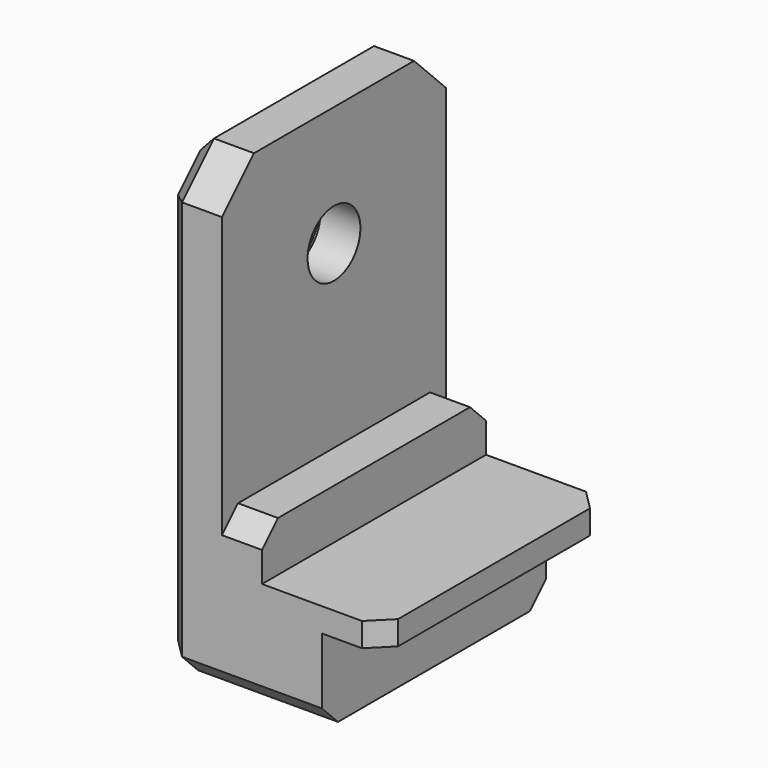
from build123d import *

# Parameters (mm, degrees)
CYLINDER049_R            = 3
CYLINDER049_DEPTH        = 1
CYLINDER050_R            = 1.65
CYLINDER050_DEPTH        = 10
BOX047_W                 = 2
BOX047_H                 = 14
BOX047_DEPTH             = 8
CHAMFER006013010006_SIZE = 1
BOX048_W                 = 3
BOX048_H                 = 14
BOX048_DEPTH             = 5.5
BOX049_W                 = 3
BOX049_H                 = 14
BOX049_DEPTH             = 1.2
CHAMFER006013010007_SIZE = 1
BOX046_W                 = 3
BOX046_H                 = 14
BOX046_DEPTH             = 23
CHAMFER006013010008_SIZE = 2
CHAMFER006013010009_SIZE = 1


with BuildPart() as cylinder049:
    # Cylinder049 → Cylinder049 (new body)
    with BuildSketch(Plane(origin=(-4, 22, 17), x_dir=(0, 0, 1), z_dir=(-1, 0, 0))):
        Circle(CYLINDER049_R)
    extrude(amount=CYLINDER049_DEPTH)


with BuildPart() as fusion024006014003:
    # Cylinder050 → Cylinder050 (new body)
    with BuildSketch(Plane(origin=(2, 22, 17), x_dir=(0, 0, 1), z_dir=(-1, 0, 0))):
        Circle(CYLINDER050_R)
    extrude(amount=CYLINDER050_DEPTH)

    # Fusion024006014003: union Cylinder049
    add(cylinder049.part)


with BuildPart() as chamfer006013010006:
    # Box047 → Box047 (new body)
    with BuildSketch(Plane(origin=(-2, 15, 0), x_dir=(1, 0, 0), z_dir=(0, 0, 1))):
        with Locations((1, 7)):
            Rectangle(BOX047_W, BOX047_H)
    extrude(amount=BOX047_DEPTH)

    # Chamfer006013010006
    chamfer006013010006_edges = [chamfer006013010006.edges().sort_by_distance(p)[0] for p in [
        (-1, 15, 8),
        (-1, 29, 8),
    ]]
    chamfer(chamfer006013010006_edges, length=CHAMFER006013010006_SIZE)


with BuildPart() as cube048:
    # Box048 → Box048 (new body)
    with BuildSketch(Plane(origin=(0, 15, 0), x_dir=(1, 0, 0), z_dir=(0, 0, 1))):
        with Locations((1.5, 7)):
            Rectangle(BOX048_W, BOX048_H)
    extrude(amount=BOX048_DEPTH)


with BuildPart() as chamfer006013010007:
    # Box049 → Box049 (new body)
    with BuildSketch(Plane(origin=(3, 15, 4.3), x_dir=(1, 0, 0), z_dir=(0, 0, 1))):
        with Locations((1.5, 7)):
            Rectangle(BOX049_W, BOX049_H)
    extrude(amount=BOX049_DEPTH)

    # Chamfer006013010007
    chamfer006013010007_edges = [chamfer006013010007.edges().sort_by_distance(p)[0] for p in [
        (6, 15, 4.9),
        (6, 29, 4.9),
    ]]
    chamfer(chamfer006013010007_edges, length=CHAMFER006013010007_SIZE)


with BuildPart() as sd_lock:
    # Box046 → Box046 (new body)
    with BuildSketch(Plane(origin=(-5, 15, 0), x_dir=(1, 0, 0), z_dir=(0, 0, 1))):
        with Locations((1.5, 7)):
            Rectangle(BOX046_W, BOX046_H)
    extrude(amount=BOX046_DEPTH)

    # Chamfer006013010008
    chamfer006013010008_edges = [sd_lock.edges().sort_by_distance(p)[0] for p in [
        (-3.5, 15, 23),
        (-3.5, 29, 23),
    ]]
    chamfer(chamfer006013010008_edges, length=CHAMFER006013010008_SIZE)

    # Fusion024006014002: union Chamfer006013010006, Cube048, Chamfer006013010007
    add(chamfer006013010006.part)
    add(cube048.part)
    add(chamfer006013010007.part)

    # Cut003002006013012006025012: cut Fusion024006014003
    add(fusion024006014003.part, mode=Mode.SUBTRACT)

    # Chamfer006013010009
    chamfer006013010009_edges = [sd_lock.edges().sort_by_distance(p)[0] for p in [
        (-3.5, 15, 0),
        (-5, 15, 10.5),
        (-3.5, 29, 0),
        (-5, 29, 10.5),
        (-5, 22, 0),
        (-5, 16, 22),
        (-5, 22, 23),
        (-5, 28, 22),
    ]]
    chamfer(chamfer006013010009_edges, length=CHAMFER006013010009_SIZE)


solid = sd_lock.part
